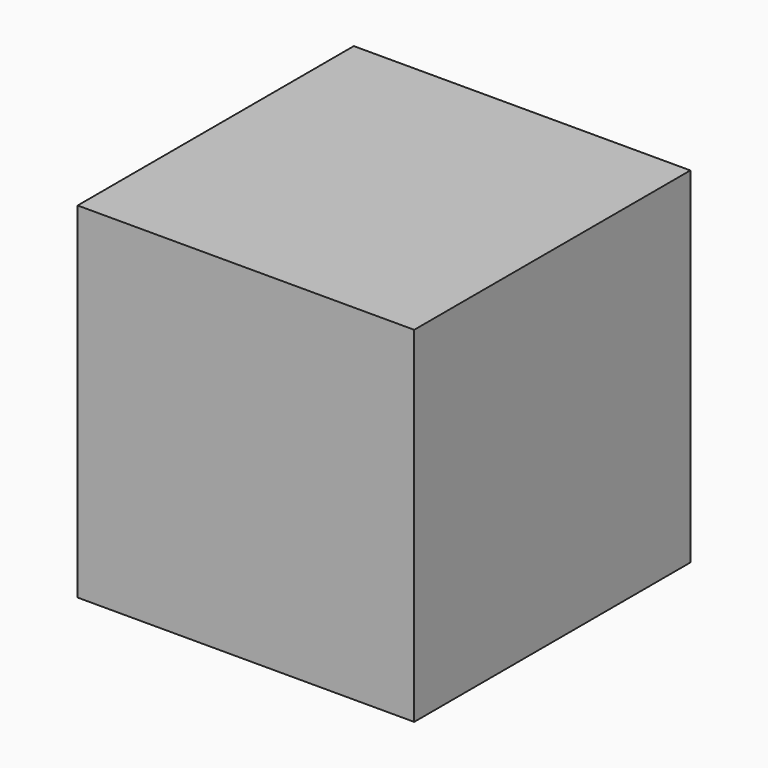
from build123d import *

# Parameters (mm, degrees)
BOX_W     = 19.5
BOX_H     = 20
BOX_DEPTH = 20


with BuildPart() as part:
    # Box → Box (join)
    with BuildSketch(Plane(origin=(-9.75, -10, 0), x_dir=(1, 0, 0), z_dir=(0, 0, 1))):
        with Locations((9.75, 10)):
            Rectangle(BOX_W, BOX_H)
    extrude(amount=BOX_DEPTH)


solid = part.part
